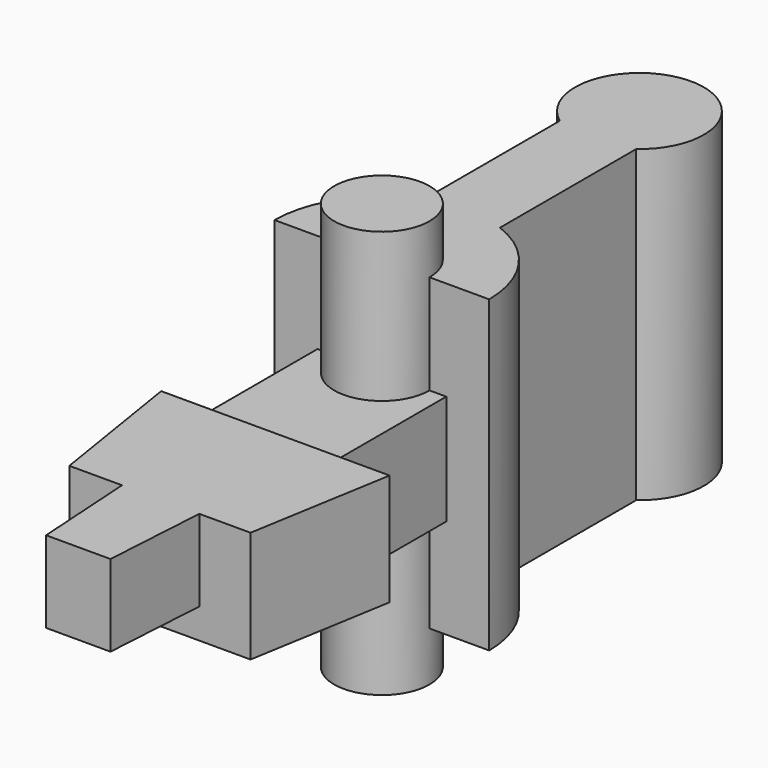
from build123d import *

# Parameters (mm, degrees)
F1_DEPTH = 4.572
F2_R     = 1.4097
F3_DEPTH = 6.0325
F4_W     = 3.81
F4_H     = 3.937
F5_DEPTH = 1.6256
F7_DEPTH = 1.651
F9_DEPTH = 2.413


with BuildPart() as f1:
    # F0 (on Top) → F1 (new body, symmetric)
    with BuildSketch(Plane.XY):
        with BuildLine():
            Line((-3.174979, -4.71263), (-1.1303, -4.71263))
            Line((-1.1303, -4.71263), (1.1303, -4.71263))
            Line((1.1303, -4.71263), (3.174979, -4.71263))
            ThreePointArc((3.174979, -4.71263), (2.611007, -2.917836), (1.1303, -1.757295))
            Line((1.1303, -1.757295), (1.1303, 3.278927))
            ThreePointArc((1.1303, 3.278927), (0, 6.71737), (-1.1303, 3.278927))
            Line((-1.1303, 3.278927), (-1.1303, -1.757295))
            ThreePointArc((-1.1303, -1.757295), (-2.611007, -2.917836), (-3.174979, -4.71263))
        make_face()
    extrude(amount=F1_DEPTH, both=True)

    # F2 (on Top) → F3 (join, symmetric)
    with BuildSketch(Plane.XY):
        with Locations((0, -4.71263)):
            Circle(F2_R)
    extrude(amount=F3_DEPTH, both=True)

    # F4 (on Top) → F5 (join, symmetric)
    with BuildSketch(Plane.XY):
        with Locations((0, -6.68113)):
            Rectangle(F4_W, F4_H)
    extrude(amount=F5_DEPTH, both=True)

    # F6 (on Top) → F7 (join, symmetric)
    with BuildSketch(Plane.XY):
        Polygon((3.3782, -8.64963), (-3.3782, -8.64963), (-2.701088, -12.89143), (2.658312, -12.89143), align=None)
    extrude(amount=F7_DEPTH, both=True)

    # F8 (on face) → F9 (join)
    with BuildSketch(Plane.XY.offset(1.651)):
        Polygon((1.143, -12.89143), (-1.143, -12.89143), (-0.950346, -15.93943), (0.954654, -15.93943), align=None)
    extrude(amount=-F9_DEPTH)


solid = f1.part
